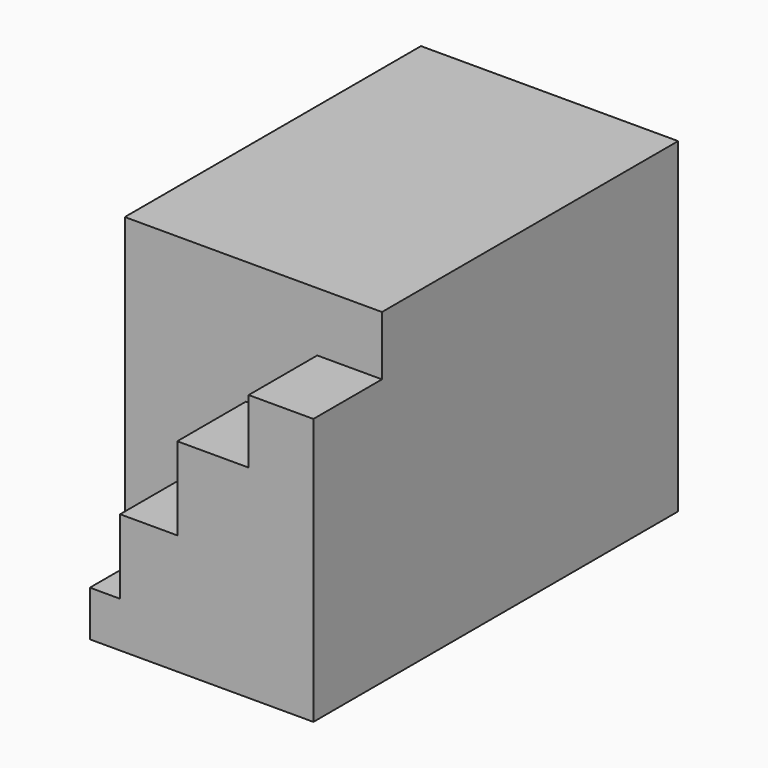
from build123d import *

# Parameters (mm, degrees)
F0_W      = 109.69113186
F0_H      = 96.6019369662
F1_DEPTH  = 76.2
F3_DEPTH  = 25.4
F4_W      = 12.1712684631
F4_H      = 10.9790135175
F4_W_2    = 8.8049545884
F4_H_2    = 8.5344947875
F4_W_3    = 9.7688166425
F4_H_3    = 7.8319623135
F4_W_4    = 10.1457694545
F4_H_4    = 9.9510354921
F5_DEPTH  = 12.7
F7_W      = 24.5119724423
F7_H      = 31.4762387425
F8_DEPTH  = 25.4
F9_W      = 15.9004002785
F9_H      = 66.7022062786
F10_DEPTH = 88.9


with BuildPart() as f1:
    # F0 (on Right) → F1 (new body)
    with BuildSketch(Plane.YZ):
        with Locations((-0.8295942098, -11.7987114936)):
            Rectangle(F0_W, F0_H)
    extrude(amount=F1_DEPTH)

    # F2 (on face) → F3 (join)
    with BuildSketch(Plane.XZ.offset(55.6751601398)):
        Polygon((76.2, -60.0996799767), (76.2, 18.9372822642), (57.0150315762, 18.9372822642), (57.0150315762, 0), (35.8594097197, 0), (35.8594097197, -24.5528668165), (18.9174246043, -24.5528668165), (18.9174246043, -46.6084964573), (9.9709145725, -46.6084964573), (9.9709145725, -60.0996799767), align=None)
    extrude(amount=F3_DEPTH)

    # F4 (on face) → F5 (cut)
    with BuildSketch(Plane(origin=(0, 0, 0), x_dir=(0, -1, 0), z_dir=(-1, 0, 0))):
        with Locations((-33.0719724298, 15.969437547)):
            Rectangle(F4_W, F4_H)
        with Locations((-33.8424704969, 0.289965421)):
            Rectangle(F4_W_2, F4_H_2)
        with Locations((-18.260889221, -0.4326736089)):
            Rectangle(F4_W_3, F4_H_3)
        with Locations((-18.0477141403, 15.3193497099)):
            Rectangle(F4_W_4, F4_H_4)
    extrude(amount=-F5_DEPTH, mode=Mode.SUBTRACT)

    # F7 (on face) → F8 (cut)
    with BuildSketch(Plane(origin=(0, 0, 0), x_dir=(0, -1, 0), z_dir=(-1, 0, 0))):
        with Locations((28.2782753929, -41.5770960972)):
            Rectangle(F7_W, F7_H)
    extrude(amount=-F8_DEPTH, mode=Mode.SUBTRACT)

    # F9 (on face) → F10 (cut)
    with BuildSketch(Plane(origin=(0, 0, -60.0996799767), x_dir=(1, 0, 0), z_dir=(0, 0, -1))):
        with Locations((10.4902001393, -18.1248685809)):
            Rectangle(F9_W, F9_H)
    extrude(amount=-F10_DEPTH, mode=Mode.SUBTRACT)


solid = f1.part
